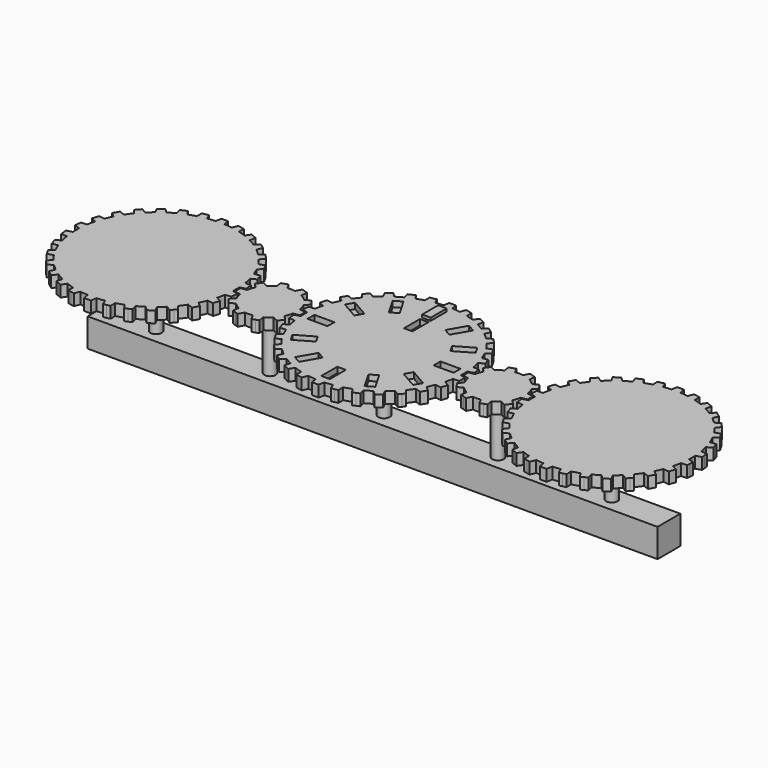
from build123d import *

# Parameters (mm, degrees)
F1_DEPTH  = 2
F3_DEPTH  = 2
F4_W      = 3
F4_H      = 7
F4_W_2    = 7
F4_H_2    = 3
F5_DEPTH  = 2
F5_FACE_W = 3
F5_FACE_H = 7
F6_DEPTH  = 3
F7_W      = 3
F7_H      = 7
F8_DEPTH  = 2
F9_R      = 2
F10_DEPTH = 25
F11_W     = 200
F11_H     = 10
F12_DEPTH = 5


with BuildPart() as f1:
    # F0 (on Top) → F1 (new body, symmetric)
    with BuildSketch(Plane.XY):
        with BuildLine():
            ThreePointArc((28.089844, -1.405814), (28.11621, -0.703127), (28.125, 0))
            ThreePointArc((28.125, 0), (28.11621, 0.703127), (28.089844, 1.405814))
            ThreePointArc((28.089844, 1.405814), (27.970928, 2.939863), (27.768298, 4.465113))
            ThreePointArc((27.768298, 4.465113), (27.510401, 5.847516), (27.183728, 7.215301))
            ThreePointArc((27.183728, 7.215301), (26.748465, 8.691103), (26.233145, 10.140894))
            ThreePointArc((26.233145, 10.140894), (25.693466, 11.439468), (25.089553, 12.709444))
            ThreePointArc((25.089553, 12.709444), (24.356964, 14.0625), (23.551478, 15.373468))
            ThreePointArc((23.551478, 15.373468), (22.753603, 16.53146), (21.898844, 17.648123))
            ThreePointArc((21.898844, 17.648123), (20.900948, 18.819298), (19.840498, 19.934149))
            ThreePointArc((19.840498, 19.934149), (18.819298, 20.900948), (17.751051, 21.815495))
            ThreePointArc((17.751051, 21.815495), (16.53146, 22.753603), (15.262393, 23.623611))
            ThreePointArc((15.262393, 23.623611), (14.0625, 24.356964), (12.827451, 25.029425))
            ThreePointArc((12.827451, 25.029425), (11.439468, 25.693466), (10.017248, 26.280608))
            ThreePointArc((10.017248, 26.280608), (8.691103, 26.748465), (7.34323, 27.149449))
            ThreePointArc((7.34323, 27.149449), (5.847516, 27.510401), (4.334301, 27.789017))
            ThreePointArc((4.334301, 27.789017), (2.939863, 27.970928), (1.538075, 28.082912))
            ThreePointArc((1.538075, 28.082912), (0, 28.125), (-1.538075, 28.082912))
            ThreePointArc((-1.538075, 28.082912), (-2.939863, 27.970928), (-4.334301, 27.789017))
            ThreePointArc((-4.334301, 27.789017), (-5.847516, 27.510401), (-7.34323, 27.149449))
            ThreePointArc((-7.34323, 27.149449), (-8.691103, 26.748465), (-10.017248, 26.280608))
            ThreePointArc((-10.017248, 26.280608), (-11.439468, 25.693466), (-12.827451, 25.029425))
            ThreePointArc((-12.827451, 25.029425), (-14.0625, 24.356964), (-15.262393, 23.623611))
            ThreePointArc((-15.262393, 23.623611), (-16.53146, 22.753603), (-17.751051, 21.815495))
            ThreePointArc((-17.751051, 21.815495), (-18.819298, 20.900948), (-19.840498, 19.934149))
            ThreePointArc((-19.840498, 19.934149), (-20.900948, 18.819298), (-21.898844, 17.648123))
            ThreePointArc((-21.898844, 17.648123), (-22.753603, 16.53146), (-23.551478, 15.373468))
            ThreePointArc((-23.551478, 15.373468), (-24.356964, 14.0625), (-25.089553, 12.709444))
            ThreePointArc((-25.089553, 12.709444), (-25.693466, 11.439468), (-26.233145, 10.140894))
            ThreePointArc((-26.233145, 10.140894), (-26.748465, 8.691103), (-27.183728, 7.215301))
            ThreePointArc((-27.183728, 7.215301), (-27.510401, 5.847516), (-27.768298, 4.465113))
            ThreePointArc((-27.768298, 4.465113), (-27.970928, 2.939863), (-28.089844, 1.405814))
            ThreePointArc((-28.089844, 1.405814), (-28.125, 0), (-28.089844, -1.405814))
            ThreePointArc((-28.089844, -1.405814), (-27.970928, -2.939863), (-27.768298, -4.465113))
            ThreePointArc((-27.768298, -4.465113), (-27.510401, -5.847516), (-27.183728, -7.215301))
            ThreePointArc((-27.183728, -7.215301), (-26.748465, -8.691103), (-26.233145, -10.140894))
            ThreePointArc((-26.233145, -10.140894), (-25.693466, -11.439468), (-25.089553, -12.709444))
            ThreePointArc((-25.089553, -12.709444), (-24.356964, -14.0625), (-23.551478, -15.373468))
            ThreePointArc((-23.551478, -15.373468), (-22.753603, -16.53146), (-21.898844, -17.648123))
            ThreePointArc((-21.898844, -17.648123), (-20.900948, -18.819298), (-19.840498, -19.934149))
            ThreePointArc((-19.840498, -19.934149), (-18.819298, -20.900948), (-17.751051, -21.815495))
            ThreePointArc((-17.751051, -21.815495), (-16.53146, -22.753603), (-15.262393, -23.623611))
            ThreePointArc((-15.262393, -23.623611), (-14.0625, -24.356964), (-12.827451, -25.029425))
            ThreePointArc((-12.827451, -25.029425), (-11.439468, -25.693466), (-10.017248, -26.280608))
            ThreePointArc((-10.017248, -26.280608), (-8.691103, -26.748465), (-7.34323, -27.149449))
            ThreePointArc((-7.34323, -27.149449), (-5.847516, -27.510401), (-4.334301, -27.789017))
            ThreePointArc((-4.334301, -27.789017), (-2.939863, -27.970928), (-1.538075, -28.082912))
            ThreePointArc((-1.538075, -28.082912), (0, -28.125), (1.538075, -28.082912))
            ThreePointArc((1.538075, -28.082912), (2.939863, -27.970928), (4.334301, -27.789017))
            ThreePointArc((4.334301, -27.789017), (5.847516, -27.510401), (7.34323, -27.149449))
            ThreePointArc((7.34323, -27.149449), (8.691103, -26.748465), (10.017248, -26.280608))
            ThreePointArc((10.017248, -26.280608), (11.439468, -25.693466), (12.827451, -25.029425))
            ThreePointArc((12.827451, -25.029425), (14.0625, -24.356964), (15.262393, -23.623611))
            ThreePointArc((15.262393, -23.623611), (16.53146, -22.753603), (17.751051, -21.815495))
            ThreePointArc((17.751051, -21.815495), (18.819298, -20.900948), (19.840498, -19.934149))
            ThreePointArc((19.840498, -19.934149), (20.900948, -18.819298), (21.898844, -17.648123))
            ThreePointArc((21.898844, -17.648123), (22.753603, -16.53146), (23.551478, -15.373468))
            ThreePointArc((23.551478, -15.373468), (24.356964, -14.0625), (25.089553, -12.709444))
            ThreePointArc((25.089553, -12.709444), (25.693466, -11.439468), (26.233145, -10.140894))
            ThreePointArc((26.233145, -10.140894), (26.748465, -8.691103), (27.183728, -7.215301))
            ThreePointArc((27.183728, -7.215301), (27.510401, -5.847516), (27.768298, -4.465113))
            ThreePointArc((27.768298, -4.465113), (27.970928, -2.939863), (28.089844, -1.405814))
        make_face()
        with BuildLine():
            ThreePointArc((27.768298, 4.465113), (27.970928, 2.939863), (28.089844, 1.405814))
            Line((28.089844, 1.405814), (30.083107, 1.977373))
            Line((30.083107, 1.977373), (29.959972, 3.14892))
            Line((29.959972, 3.14892), (29.836838, 4.320467))
            Line((29.836838, 4.320467), (27.768298, 4.465113))
        make_face()
        with BuildLine():
            Line((30.083107, -1.977373), (28.089844, -1.405814))
            ThreePointArc((28.089844, -1.405814), (27.970928, -2.939863), (27.768298, -4.465113))
            Line((27.768298, -4.465113), (29.836838, -4.320467))
            Line((29.836838, -4.320467), (29.959972, -3.14892))
            Line((29.959972, -3.14892), (30.083107, -1.977373))
        make_face()
        with BuildLine():
            ThreePointArc((26.233145, 10.140894), (26.748465, 8.691103), (27.183728, 7.215301))
            Line((27.183728, 7.215301), (29.0146, 8.188792))
            Line((29.0146, 8.188792), (28.650578, 9.309137))
            Line((28.650578, 9.309137), (28.286556, 10.429482))
            Line((28.286556, 10.429482), (26.233145, 10.140894))
        make_face()
        with BuildLine():
            Line((29.0146, -8.188792), (27.183728, -7.215301))
            ThreePointArc((27.183728, -7.215301), (26.748465, -8.691103), (26.233145, -10.140894))
            Line((26.233145, -10.140894), (28.286556, -10.429482))
            Line((28.286556, -10.429482), (28.650578, -9.309137))
            Line((28.650578, -9.309137), (29.0146, -8.188792))
        make_face()
        with BuildLine():
            ThreePointArc((23.551478, 15.373468), (24.356964, 14.0625), (25.089553, 12.709444))
            Line((25.089553, 12.709444), (26.678015, 14.042322))
            Line((26.678015, 14.042322), (26.089015, 15.0625))
            Line((26.089015, 15.0625), (25.500015, 16.082678))
            Line((25.500015, 16.082678), (23.551478, 15.373468))
        make_face()
        with BuildLine():
            Line((26.678015, -14.042322), (25.089553, -12.709444))
            ThreePointArc((25.089553, -12.709444), (24.356964, -14.0625), (23.551478, -15.373468))
            Line((23.551478, -15.373468), (25.500015, -16.082678))
            Line((25.500015, -16.082678), (26.089015, -15.0625))
            Line((26.089015, -15.0625), (26.678015, -14.042322))
        make_face()
        with BuildLine():
            ThreePointArc((19.840498, 19.934149), (20.900948, 18.819298), (21.898844, 17.648123))
            Line((21.898844, 17.648123), (23.175474, 19.282135))
            Line((23.175474, 19.282135), (22.387238, 20.15756))
            Line((22.387238, 20.15756), (21.599002, 21.032984))
            Line((21.599002, 21.032984), (19.840498, 19.934149))
        make_face()
        with BuildLine():
            Line((23.175474, -19.282135), (21.898844, -17.648123))
            ThreePointArc((21.898844, -17.648123), (20.900948, -18.819298), (19.840498, -19.934149))
            Line((19.840498, -19.934149), (21.599002, -21.032984))
            Line((21.599002, -21.032984), (22.387238, -20.15756))
            Line((22.387238, -20.15756), (23.175474, -19.282135))
        make_face()
        with BuildLine():
            ThreePointArc((15.262393, 23.623611), (16.53146, 22.753603), (17.751051, 21.815495))
            Line((17.751051, 21.815495), (18.660053, 23.679226))
            Line((18.660053, 23.679226), (17.707031, 24.371637))
            Line((17.707031, 24.371637), (16.754009, 25.064048))
            Line((16.754009, 25.064048), (15.262393, 23.623611))
        make_face()
        with BuildLine():
            Line((18.660053, -23.679226), (17.751051, -21.815495))
            ThreePointArc((17.751051, -21.815495), (16.53146, -22.753603), (15.262393, -23.623611))
            Line((15.262393, -23.623611), (16.754009, -25.064048))
            Line((16.754009, -25.064048), (17.707031, -24.371637))
            Line((17.707031, -24.371637), (18.660053, -23.679226))
        make_face()
        with BuildLine():
            ThreePointArc((10.017248, 26.280608), (11.439468, 25.693466), (12.827451, 25.029425))
            Line((12.827451, 25.029425), (13.329098, 27.041421))
            Line((13.329098, 27.041421), (12.252941, 27.520557))
            Line((12.252941, 27.520557), (11.176785, 27.999693))
            Line((11.176785, 27.999693), (10.017248, 26.280608))
        make_face()
        with BuildLine():
            Line((13.329098, -27.041421), (12.827451, -25.029425))
            ThreePointArc((12.827451, -25.029425), (11.439468, -25.693466), (10.017248, -26.280608))
            Line((10.017248, -26.280608), (11.176785, -27.999693))
            Line((11.176785, -27.999693), (12.252941, -27.520557))
            Line((12.252941, -27.520557), (13.329098, -27.041421))
        make_face()
        with BuildLine():
            ThreePointArc((4.334301, 27.789017), (5.847516, 27.510401), (7.34323, 27.149449))
            Line((7.34323, 27.149449), (7.415598, 29.221777))
            Line((7.415598, 29.221777), (6.26334, 29.466696))
            Line((6.26334, 29.466696), (5.111082, 29.711616))
            Line((5.111082, 29.711616), (4.334301, 27.789017))
        make_face()
        with BuildLine():
            Line((7.415598, -29.221777), (7.34323, -27.149449))
            ThreePointArc((7.34323, -27.149449), (5.847516, -27.510401), (4.334301, -27.789017))
            Line((4.334301, -27.789017), (5.111082, -29.711616))
            Line((5.111082, -29.711616), (6.26334, -29.466696))
            Line((6.26334, -29.466696), (7.415598, -29.221777))
        make_face()
        with BuildLine():
            ThreePointArc((-1.538075, 28.082912), (0, 28.125), (1.538075, 28.082912))
            Line((1.538075, 28.082912), (1.178, 30.125))
            Line((1.178, 30.125), (0, 30.125))
            Line((0, 30.125), (-1.178, 30.125))
            Line((-1.178, 30.125), (-1.538075, 28.082912))
        make_face()
        with BuildLine():
            Line((1.178, -30.125), (1.538075, -28.082912))
            ThreePointArc((1.538075, -28.082912), (0, -28.125), (-1.538075, -28.082912))
            Line((-1.538075, -28.082912), (-1.178, -30.125))
            Line((-1.178, -30.125), (0, -30.125))
            Line((0, -30.125), (1.178, -30.125))
        make_face()
        with BuildLine():
            ThreePointArc((-7.34323, 27.149449), (-5.847516, 27.510401), (-4.334301, 27.789017))
            Line((-4.334301, 27.789017), (-5.111082, 29.711616))
            Line((-5.111082, 29.711616), (-6.26334, 29.466696))
            Line((-6.26334, 29.466696), (-7.415598, 29.221777))
            Line((-7.415598, 29.221777), (-7.34323, 27.149449))
        make_face()
        with BuildLine():
            Line((-5.111082, -29.711616), (-4.334301, -27.789017))
            ThreePointArc((-4.334301, -27.789017), (-5.847516, -27.510401), (-7.34323, -27.149449))
            Line((-7.34323, -27.149449), (-7.415598, -29.221777))
            Line((-7.415598, -29.221777), (-6.26334, -29.466696))
            Line((-6.26334, -29.466696), (-5.111082, -29.711616))
        make_face()
        with BuildLine():
            ThreePointArc((-12.827451, 25.029425), (-11.439468, 25.693466), (-10.017248, 26.280608))
            Line((-10.017248, 26.280608), (-11.176785, 27.999693))
            Line((-11.176785, 27.999693), (-12.252941, 27.520557))
            Line((-12.252941, 27.520557), (-13.329098, 27.041421))
            Line((-13.329098, 27.041421), (-12.827451, 25.029425))
        make_face()
        with BuildLine():
            Line((-11.176785, -27.999693), (-10.017248, -26.280608))
            ThreePointArc((-10.017248, -26.280608), (-11.439468, -25.693466), (-12.827451, -25.029425))
            Line((-12.827451, -25.029425), (-13.329098, -27.041421))
            Line((-13.329098, -27.041421), (-12.252941, -27.520557))
            Line((-12.252941, -27.520557), (-11.176785, -27.999693))
        make_face()
        with BuildLine():
            ThreePointArc((-17.751051, 21.815495), (-16.53146, 22.753603), (-15.262393, 23.623611))
            Line((-15.262393, 23.623611), (-16.754009, 25.064048))
            Line((-16.754009, 25.064048), (-17.707031, 24.371637))
            Line((-17.707031, 24.371637), (-18.660053, 23.679226))
            Line((-18.660053, 23.679226), (-17.751051, 21.815495))
        make_face()
        with BuildLine():
            Line((-16.754009, -25.064048), (-15.262393, -23.623611))
            ThreePointArc((-15.262393, -23.623611), (-16.53146, -22.753603), (-17.751051, -21.815495))
            Line((-17.751051, -21.815495), (-18.660053, -23.679226))
            Line((-18.660053, -23.679226), (-17.707031, -24.371637))
            Line((-17.707031, -24.371637), (-16.754009, -25.064048))
        make_face()
        with BuildLine():
            ThreePointArc((-21.898844, 17.648123), (-20.900948, 18.819298), (-19.840498, 19.934149))
            Line((-19.840498, 19.934149), (-21.599002, 21.032984))
            Line((-21.599002, 21.032984), (-22.387238, 20.15756))
            Line((-22.387238, 20.15756), (-23.175474, 19.282135))
            Line((-23.175474, 19.282135), (-21.898844, 17.648123))
        make_face()
        with BuildLine():
            Line((-21.599002, -21.032984), (-19.840498, -19.934149))
            ThreePointArc((-19.840498, -19.934149), (-20.900948, -18.819298), (-21.898844, -17.648123))
            Line((-21.898844, -17.648123), (-23.175474, -19.282135))
            Line((-23.175474, -19.282135), (-22.387238, -20.15756))
            Line((-22.387238, -20.15756), (-21.599002, -21.032984))
        make_face()
        with BuildLine():
            ThreePointArc((-25.089553, 12.709444), (-24.356964, 14.0625), (-23.551478, 15.373468))
            Line((-23.551478, 15.373468), (-25.500015, 16.082678))
            Line((-25.500015, 16.082678), (-26.089015, 15.0625))
            Line((-26.089015, 15.0625), (-26.678015, 14.042322))
            Line((-26.678015, 14.042322), (-25.089553, 12.709444))
        make_face()
        with BuildLine():
            Line((-25.500015, -16.082678), (-23.551478, -15.373468))
            ThreePointArc((-23.551478, -15.373468), (-24.356964, -14.0625), (-25.089553, -12.709444))
            Line((-25.089553, -12.709444), (-26.678015, -14.042322))
            Line((-26.678015, -14.042322), (-26.089015, -15.0625))
            Line((-26.089015, -15.0625), (-25.500015, -16.082678))
        make_face()
        with BuildLine():
            ThreePointArc((-27.183728, 7.215301), (-26.748465, 8.691103), (-26.233145, 10.140894))
            Line((-26.233145, 10.140894), (-28.286556, 10.429482))
            Line((-28.286556, 10.429482), (-28.650578, 9.309137))
            Line((-28.650578, 9.309137), (-29.0146, 8.188792))
            Line((-29.0146, 8.188792), (-27.183728, 7.215301))
        make_face()
        with BuildLine():
            Line((-28.286556, -10.429482), (-26.233145, -10.140894))
            ThreePointArc((-26.233145, -10.140894), (-26.748465, -8.691103), (-27.183728, -7.215301))
            Line((-27.183728, -7.215301), (-29.0146, -8.188792))
            Line((-29.0146, -8.188792), (-28.650578, -9.309137))
            Line((-28.650578, -9.309137), (-28.286556, -10.429482))
        make_face()
        with BuildLine():
            ThreePointArc((-28.089844, 1.405814), (-27.970928, 2.939863), (-27.768298, 4.465113))
            Line((-27.768298, 4.465113), (-29.836838, 4.320467))
            Line((-29.836838, 4.320467), (-29.959972, 3.14892))
            Line((-29.959972, 3.14892), (-30.083107, 1.977373))
            Line((-30.083107, 1.977373), (-28.089844, 1.405814))
        make_face()
        with BuildLine():
            Line((-29.836838, -4.320467), (-27.768298, -4.465113))
            ThreePointArc((-27.768298, -4.465113), (-27.970928, -2.939863), (-28.089844, -1.405814))
            Line((-28.089844, -1.405814), (-30.083107, -1.977373))
            Line((-30.083107, -1.977373), (-29.959972, -3.14892))
            Line((-29.959972, -3.14892), (-29.836838, -4.320467))
        make_face()
    extrude(amount=F1_DEPTH, both=True)

    # F4 (on face) → F5 (cut)
    with BuildSketch(Plane.XY.offset(2)):
        with Locations((0, 22.125)):
            Rectangle(F4_W, F4_H)
        Polygon((-11.513462, 22.941901), (-14.111538, 21.441901), (-10.611538, 15.379723), (-8.013462, 16.879723), align=None)
        Polygon((-21.441901, 14.111538), (-22.941901, 11.513462), (-16.879723, 8.013462), (-15.379723, 10.611538), align=None)
        with Locations((-22.125, 0)):
            Rectangle(F4_W_2, F4_H_2)
        Polygon((-22.941901, -11.513462), (-21.441901, -14.111538), (-15.379723, -10.611538), (-16.879723, -8.013462), align=None)
        Polygon((-14.111538, -21.441901), (-11.513462, -22.941901), (-8.013462, -16.879723), (-10.611538, -15.379723), align=None)
        with Locations((0, -22.125)):
            Rectangle(F4_W, F4_H)
        Polygon((11.513462, -22.941901), (14.111538, -21.441901), (10.611538, -15.379723), (8.013462, -16.879723), align=None)
        Polygon((21.441901, -14.111538), (22.941901, -11.513462), (16.879723, -8.013462), (15.379723, -10.611538), align=None)
        with Locations((22.125, 0)):
            Rectangle(F4_W_2, F4_H_2)
        Polygon((22.941901, 11.513462), (21.441901, 14.111538), (15.379723, 10.611538), (16.879723, 8.013462), align=None)
        Polygon((14.111538, 21.441901), (11.513462, 22.941901), (8.013462, 16.879723), (10.611538, 15.379723), align=None)
    extrude(amount=-F5_DEPTH, mode=Mode.SUBTRACT)

    # F7 (on face) → F8 (cut)
    with BuildSketch(Plane.XY.offset(2)):
        with Locations((0, 14.125)):
            Rectangle(F7_W, F7_H)
    extrude(amount=-F8_DEPTH, mode=Mode.SUBTRACT)


with BuildPart() as f3:
    # F2 (on Top) → F3 (new body, symmetric)
    with BuildSketch(Plane.XY):
        with BuildLine():
            ThreePointArc((49.247251, -1.542395), (49.343008, -0.773838), (49.375, 0))
            ThreePointArc((49.375, 0), (49.343008, 0.773838), (49.247251, 1.542395))
            ThreePointArc((49.247251, 1.542395), (48.916155, 2.897034), (48.38778, 4.187574))
            ThreePointArc((48.38778, 4.187574), (47.584534, 5.510487), (46.574586, 6.683221))
            ThreePointArc((46.574586, 6.683221), (45.510487, 7.584534), (44.324463, 8.318032))
            ThreePointArc((44.324463, 8.318032), (42.897034, 8.916155), (41.390653, 9.271284))
            ThreePointArc((41.390653, 9.271284), (40, 9.375), (38.609347, 9.271284))
            ThreePointArc((38.609347, 9.271284), (37.102966, 8.916155), (35.675537, 8.318032))
            ThreePointArc((35.675537, 8.318032), (34.489513, 7.584534), (33.425414, 6.683221))
            ThreePointArc((33.425414, 6.683221), (32.415466, 5.510487), (31.61222, 4.187574))
            ThreePointArc((31.61222, 4.187574), (31.083845, 2.897034), (30.752749, 1.542395))
            ThreePointArc((30.752749, 1.542395), (30.625, 0), (30.752749, -1.542395))
            ThreePointArc((30.752749, -1.542395), (31.083845, -2.897034), (31.61222, -4.187574))
            ThreePointArc((31.61222, -4.187574), (32.415466, -5.510487), (33.425414, -6.683221))
            ThreePointArc((33.425414, -6.683221), (34.489513, -7.584534), (35.675537, -8.318032))
            ThreePointArc((35.675537, -8.318032), (37.102966, -8.916155), (38.609347, -9.271284))
            ThreePointArc((38.609347, -9.271284), (40, -9.375), (41.390653, -9.271284))
            ThreePointArc((41.390653, -9.271284), (42.897034, -8.916155), (44.324463, -8.318032))
            ThreePointArc((44.324463, -8.318032), (45.510487, -7.584534), (46.574586, -6.683221))
            ThreePointArc((46.574586, -6.683221), (47.584534, -5.510487), (48.38778, -4.187574))
            ThreePointArc((48.38778, -4.187574), (48.916155, -2.897034), (49.247251, -1.542395))
        make_face()
        with BuildLine():
            ThreePointArc((49.247251, 1.542395), (49.343008, 0.773838), (49.375, 0))
            ThreePointArc((49.375, 0), (49.343008, -0.773838), (49.247251, -1.542395))
            Line((49.247251, -1.542395), (51.313838, -1.178))
            Line((51.313838, -1.178), (51.313838, 0))
            Line((51.313838, 0), (51.313838, 1.178))
            Line((51.313838, 1.178), (49.247251, 1.542395))
        make_face()
        with BuildLine():
            ThreePointArc((46.574586, 6.683221), (47.584534, 5.510487), (48.38778, 4.187574))
            Line((48.38778, 4.187574), (49.845499, 5.697085))
            Line((49.845499, 5.697085), (49.153088, 6.650107))
            Line((49.153088, 6.650107), (48.460677, 7.603129))
            Line((48.460677, 7.603129), (46.574586, 6.683221))
        make_face()
        with BuildLine():
            Line((49.845499, -5.697085), (48.38778, -4.187574))
            ThreePointArc((48.38778, -4.187574), (47.584534, -5.510487), (46.574586, -6.683221))
            Line((46.574586, -6.683221), (48.460677, -7.603129))
            Line((48.460677, -7.603129), (49.153088, -6.650107))
            Line((49.153088, -6.650107), (49.845499, -5.697085))
        make_face()
        with BuildLine():
            ThreePointArc((41.390653, 9.271284), (42.897034, 8.916155), (44.324463, 8.318032))
            Line((44.324463, 8.318032), (44.616513, 10.396078))
            Line((44.616513, 10.396078), (43.496168, 10.7601))
            Line((43.496168, 10.7601), (42.375824, 11.124122))
            Line((42.375824, 11.124122), (41.390653, 9.271284))
        make_face()
        with BuildLine():
            Line((44.616513, -10.396078), (44.324463, -8.318032))
            ThreePointArc((44.324463, -8.318032), (42.897034, -8.916155), (41.390653, -9.271284))
            Line((41.390653, -9.271284), (42.375824, -11.124122))
            Line((42.375824, -11.124122), (43.496168, -10.7601))
            Line((43.496168, -10.7601), (44.616513, -10.396078))
        make_face()
        with BuildLine():
            ThreePointArc((35.675537, 8.318032), (37.102966, 8.916155), (38.609347, 9.271284))
            Line((38.609347, 9.271284), (37.624176, 11.124122))
            Line((37.624176, 11.124122), (36.503832, 10.7601))
            Line((36.503832, 10.7601), (35.383487, 10.396078))
            Line((35.383487, 10.396078), (35.675537, 8.318032))
        make_face()
        with BuildLine():
            Line((37.624176, -11.124122), (38.609347, -9.271284))
            ThreePointArc((38.609347, -9.271284), (37.102966, -8.916155), (35.675537, -8.318032))
            Line((35.675537, -8.318032), (35.383487, -10.396078))
            Line((35.383487, -10.396078), (36.503832, -10.7601))
            Line((36.503832, -10.7601), (37.624176, -11.124122))
        make_face()
        with BuildLine():
            ThreePointArc((31.61222, 4.187574), (32.415466, 5.510487), (33.425414, 6.683221))
            Line((33.425414, 6.683221), (31.539323, 7.603129))
            Line((31.539323, 7.603129), (30.846912, 6.650107))
            Line((30.846912, 6.650107), (30.154501, 5.697085))
            Line((30.154501, 5.697085), (31.61222, 4.187574))
        make_face()
        with BuildLine():
            Line((31.539323, -7.603129), (33.425414, -6.683221))
            ThreePointArc((33.425414, -6.683221), (32.415466, -5.510487), (31.61222, -4.187574))
            Line((31.61222, -4.187574), (30.154501, -5.697085))
            Line((30.154501, -5.697085), (30.846912, -6.650107))
            Line((30.846912, -6.650107), (31.539323, -7.603129))
        make_face()
        with BuildLine():
            ThreePointArc((30.752749, -1.542395), (30.625, 0), (30.752749, 1.542395))
            Line((30.752749, 1.542395), (28.686162, 1.178))
            Line((28.686162, 1.178), (28.686162, 0))
            Line((28.686162, 0), (28.686162, -1.178))
            Line((28.686162, -1.178), (30.752749, -1.542395))
        make_face()
        with BuildLine():
            ThreePointArc((-30.75461, -1.553508), (-30.657459, -0.779453), (-30.625, 0))
            ThreePointArc((-30.625, 0), (-30.657459, 0.779453), (-30.75461, 1.553508))
            ThreePointArc((-30.75461, 1.553508), (-31.083845, 2.897034), (-31.607193, 4.17749))
            ThreePointArc((-31.607193, 4.17749), (-32.415466, 5.510487), (-33.433451, 6.691118))
            ThreePointArc((-33.433451, 6.691118), (-34.489513, 7.584534), (-35.665544, 8.312828))
            ThreePointArc((-35.665544, 8.312828), (-37.102966, 8.916155), (-38.620491, 9.272949))
            ThreePointArc((-38.620491, 9.272949), (-40, 9.375), (-41.379509, 9.272949))
            ThreePointArc((-41.379509, 9.272949), (-42.897034, 8.916155), (-44.334456, 8.312828))
            ThreePointArc((-44.334456, 8.312828), (-45.510487, 7.584534), (-46.566549, 6.691118))
            ThreePointArc((-46.566549, 6.691118), (-47.584534, 5.510487), (-48.392807, 4.17749))
            ThreePointArc((-48.392807, 4.17749), (-48.916155, 2.897034), (-49.24539, 1.553508))
            ThreePointArc((-49.24539, 1.553508), (-49.375, 0), (-49.24539, -1.553508))
            ThreePointArc((-49.24539, -1.553508), (-48.916155, -2.897034), (-48.392807, -4.17749))
            ThreePointArc((-48.392807, -4.17749), (-47.584534, -5.510487), (-46.566549, -6.691118))
            ThreePointArc((-46.566549, -6.691118), (-45.510487, -7.584534), (-44.334456, -8.312828))
            ThreePointArc((-44.334456, -8.312828), (-42.897034, -8.916155), (-41.379509, -9.272949))
            ThreePointArc((-41.379509, -9.272949), (-40, -9.375), (-38.620491, -9.272949))
            ThreePointArc((-38.620491, -9.272949), (-37.102966, -8.916155), (-35.665544, -8.312828))
            ThreePointArc((-35.665544, -8.312828), (-34.489513, -7.584534), (-33.433451, -6.691118))
            ThreePointArc((-33.433451, -6.691118), (-32.415466, -5.510487), (-31.607193, -4.17749))
            ThreePointArc((-31.607193, -4.17749), (-31.083845, -2.897034), (-30.75461, -1.553508))
        make_face()
        with BuildLine():
            ThreePointArc((-30.75461, 1.553508), (-30.657459, 0.779453), (-30.625, 0))
            ThreePointArc((-30.625, 0), (-30.657459, -0.779453), (-30.75461, -1.553508))
            Line((-30.75461, -1.553508), (-28.625, -1.178))
            Line((-28.625, -1.178), (-28.625, 0))
            Line((-28.625, 0), (-28.625, 1.178))
            Line((-28.625, 1.178), (-30.75461, 1.553508))
        make_face()
        with BuildLine():
            ThreePointArc((-33.433451, 6.691118), (-32.415466, 5.510487), (-31.607193, 4.17749))
            Line((-31.607193, 4.17749), (-30.105021, 5.733035))
            Line((-30.105021, 5.733035), (-30.797432, 6.686057))
            Line((-30.797432, 6.686057), (-31.489843, 7.639079))
            Line((-31.489843, 7.639079), (-33.433451, 6.691118))
        make_face()
        with BuildLine():
            Line((-30.105021, -5.733035), (-31.607193, -4.17749))
            ThreePointArc((-31.607193, -4.17749), (-32.415466, -5.510487), (-33.433451, -6.691118))
            Line((-33.433451, -6.691118), (-31.489843, -7.639079))
            Line((-31.489843, -7.639079), (-30.797432, -6.686057))
            Line((-30.797432, -6.686057), (-30.105021, -5.733035))
        make_face()
        with BuildLine():
            ThreePointArc((-38.620491, 9.272949), (-37.102966, 8.916155), (-35.665544, 8.312828))
            Line((-35.665544, 8.312828), (-35.364587, 10.454246))
            Line((-35.364587, 10.454246), (-36.484932, 10.818268))
            Line((-36.484932, 10.818268), (-37.605276, 11.18229))
            Line((-37.605276, 11.18229), (-38.620491, 9.272949))
        make_face()
        with BuildLine():
            Line((-35.364587, -10.454246), (-35.665544, -8.312828))
            ThreePointArc((-35.665544, -8.312828), (-37.102966, -8.916155), (-38.620491, -9.272949))
            Line((-38.620491, -9.272949), (-37.605276, -11.18229))
            Line((-37.605276, -11.18229), (-36.484932, -10.818268))
            Line((-36.484932, -10.818268), (-35.364587, -10.454246))
        make_face()
        with BuildLine():
            ThreePointArc((-44.334456, 8.312828), (-42.897034, 8.916155), (-41.379509, 9.272949))
            Line((-41.379509, 9.272949), (-42.394724, 11.18229))
            Line((-42.394724, 11.18229), (-43.515068, 10.818268))
            Line((-43.515068, 10.818268), (-44.635413, 10.454246))
            Line((-44.635413, 10.454246), (-44.334456, 8.312828))
        make_face()
        with BuildLine():
            Line((-42.394724, -11.18229), (-41.379509, -9.272949))
            ThreePointArc((-41.379509, -9.272949), (-42.897034, -8.916155), (-44.334456, -8.312828))
            Line((-44.334456, -8.312828), (-44.635413, -10.454246))
            Line((-44.635413, -10.454246), (-43.515068, -10.818268))
            Line((-43.515068, -10.818268), (-42.394724, -11.18229))
        make_face()
        with BuildLine():
            ThreePointArc((-48.392807, 4.17749), (-47.584534, 5.510487), (-46.566549, 6.691118))
            Line((-46.566549, 6.691118), (-48.510157, 7.639079))
            Line((-48.510157, 7.639079), (-49.202568, 6.686057))
            Line((-49.202568, 6.686057), (-49.894979, 5.733035))
            Line((-49.894979, 5.733035), (-48.392807, 4.17749))
        make_face()
        with BuildLine():
            Line((-48.510157, -7.639079), (-46.566549, -6.691118))
            ThreePointArc((-46.566549, -6.691118), (-47.584534, -5.510487), (-48.392807, -4.17749))
            Line((-48.392807, -4.17749), (-49.894979, -5.733035))
            Line((-49.894979, -5.733035), (-49.202568, -6.686057))
            Line((-49.202568, -6.686057), (-48.510157, -7.639079))
        make_face()
        with BuildLine():
            ThreePointArc((-49.24539, -1.553508), (-49.375, 0), (-49.24539, 1.553508))
            Line((-49.24539, 1.553508), (-51.375, 1.178))
            Line((-51.375, 1.178), (-51.375, 0))
            Line((-51.375, 0), (-51.375, -1.178))
            Line((-51.375, -1.178), (-49.24539, -1.553508))
        make_face()
        with BuildLine():
            ThreePointArc((-51.910156, -1.405814), (-51.88379, -0.703127), (-51.875, 0))
            ThreePointArc((-51.875, 0), (-51.88379, 0.703127), (-51.910156, 1.405814))
            ThreePointArc((-51.910156, 1.405814), (-52.029072, 2.939863), (-52.231702, 4.465113))
            ThreePointArc((-52.231702, 4.465113), (-52.489599, 5.847516), (-52.816272, 7.215301))
            ThreePointArc((-52.816272, 7.215301), (-53.251535, 8.691103), (-53.766855, 10.140894))
            ThreePointArc((-53.766855, 10.140894), (-54.306534, 11.439468), (-54.910447, 12.709444))
            ThreePointArc((-54.910447, 12.709444), (-55.643036, 14.0625), (-56.448522, 15.373468))
            ThreePointArc((-56.448522, 15.373468), (-57.246397, 16.53146), (-58.101156, 17.648123))
            ThreePointArc((-58.101156, 17.648123), (-59.099052, 18.819298), (-60.159502, 19.934149))
            ThreePointArc((-60.159502, 19.934149), (-61.180702, 20.900948), (-62.248949, 21.815495))
            ThreePointArc((-62.248949, 21.815495), (-63.46854, 22.753603), (-64.737607, 23.623611))
            ThreePointArc((-64.737607, 23.623611), (-65.9375, 24.356964), (-67.172549, 25.029425))
            ThreePointArc((-67.172549, 25.029425), (-68.560532, 25.693466), (-69.982752, 26.280608))
            ThreePointArc((-69.982752, 26.280608), (-71.308897, 26.748465), (-72.65677, 27.149449))
            ThreePointArc((-72.65677, 27.149449), (-74.152484, 27.510401), (-75.665699, 27.789017))
            ThreePointArc((-75.665699, 27.789017), (-77.060137, 27.970928), (-78.461925, 28.082912))
            ThreePointArc((-78.461925, 28.082912), (-80, 28.125), (-81.538075, 28.082912))
            ThreePointArc((-81.538075, 28.082912), (-82.939863, 27.970928), (-84.334301, 27.789017))
            ThreePointArc((-84.334301, 27.789017), (-85.847516, 27.510401), (-87.34323, 27.149449))
            ThreePointArc((-87.34323, 27.149449), (-88.691103, 26.748465), (-90.017248, 26.280608))
            ThreePointArc((-90.017248, 26.280608), (-91.439468, 25.693466), (-92.827451, 25.029425))
            ThreePointArc((-92.827451, 25.029425), (-94.0625, 24.356964), (-95.262393, 23.623611))
            ThreePointArc((-95.262393, 23.623611), (-96.53146, 22.753603), (-97.751051, 21.815495))
            ThreePointArc((-97.751051, 21.815495), (-98.819298, 20.900948), (-99.840498, 19.934149))
            ThreePointArc((-99.840498, 19.934149), (-100.900948, 18.819298), (-101.898844, 17.648123))
            ThreePointArc((-101.898844, 17.648123), (-102.753603, 16.53146), (-103.551478, 15.373468))
            ThreePointArc((-103.551478, 15.373468), (-104.356964, 14.0625), (-105.089553, 12.709444))
            ThreePointArc((-105.089553, 12.709444), (-105.693466, 11.439468), (-106.233145, 10.140894))
            ThreePointArc((-106.233145, 10.140894), (-106.748465, 8.691103), (-107.183728, 7.215301))
            ThreePointArc((-107.183728, 7.215301), (-107.510401, 5.847516), (-107.768298, 4.465113))
            ThreePointArc((-107.768298, 4.465113), (-107.970928, 2.939863), (-108.089844, 1.405814))
            ThreePointArc((-108.089844, 1.405814), (-108.125, 0), (-108.089844, -1.405814))
            ThreePointArc((-108.089844, -1.405814), (-107.970928, -2.939863), (-107.768298, -4.465113))
            ThreePointArc((-107.768298, -4.465113), (-107.510401, -5.847516), (-107.183728, -7.215301))
            ThreePointArc((-107.183728, -7.215301), (-106.748465, -8.691103), (-106.233145, -10.140894))
            ThreePointArc((-106.233145, -10.140894), (-105.693466, -11.439468), (-105.089553, -12.709444))
            ThreePointArc((-105.089553, -12.709444), (-104.356964, -14.0625), (-103.551478, -15.373468))
            ThreePointArc((-103.551478, -15.373468), (-102.753603, -16.53146), (-101.898844, -17.648123))
            ThreePointArc((-101.898844, -17.648123), (-100.900948, -18.819298), (-99.840498, -19.934149))
            ThreePointArc((-99.840498, -19.934149), (-98.819298, -20.900948), (-97.751051, -21.815495))
            ThreePointArc((-97.751051, -21.815495), (-96.53146, -22.753603), (-95.262393, -23.623611))
            ThreePointArc((-95.262393, -23.623611), (-94.0625, -24.356964), (-92.827451, -25.029425))
            ThreePointArc((-92.827451, -25.029425), (-91.439468, -25.693466), (-90.017248, -26.280608))
            ThreePointArc((-90.017248, -26.280608), (-88.691103, -26.748465), (-87.34323, -27.149449))
            ThreePointArc((-87.34323, -27.149449), (-85.847516, -27.510401), (-84.334301, -27.789017))
            ThreePointArc((-84.334301, -27.789017), (-82.939863, -27.970928), (-81.538075, -28.082912))
            ThreePointArc((-81.538075, -28.082912), (-80, -28.125), (-78.461925, -28.082912))
            ThreePointArc((-78.461925, -28.082912), (-77.060137, -27.970928), (-75.665699, -27.789017))
            ThreePointArc((-75.665699, -27.789017), (-74.152484, -27.510401), (-72.65677, -27.149449))
            ThreePointArc((-72.65677, -27.149449), (-71.308897, -26.748465), (-69.982752, -26.280608))
            ThreePointArc((-69.982752, -26.280608), (-68.560532, -25.693466), (-67.172549, -25.029425))
            ThreePointArc((-67.172549, -25.029425), (-65.9375, -24.356964), (-64.737607, -23.623611))
            ThreePointArc((-64.737607, -23.623611), (-63.46854, -22.753603), (-62.248949, -21.815495))
            ThreePointArc((-62.248949, -21.815495), (-61.180702, -20.900948), (-60.159502, -19.934149))
            ThreePointArc((-60.159502, -19.934149), (-59.099052, -18.819298), (-58.101156, -17.648123))
            ThreePointArc((-58.101156, -17.648123), (-57.246397, -16.53146), (-56.448522, -15.373468))
            ThreePointArc((-56.448522, -15.373468), (-55.643036, -14.0625), (-54.910447, -12.709444))
            ThreePointArc((-54.910447, -12.709444), (-54.306534, -11.439468), (-53.766855, -10.140894))
            ThreePointArc((-53.766855, -10.140894), (-53.251535, -8.691103), (-52.816272, -7.215301))
            ThreePointArc((-52.816272, -7.215301), (-52.489599, -5.847516), (-52.231702, -4.465113))
            ThreePointArc((-52.231702, -4.465113), (-52.029072, -2.939863), (-51.910156, -1.405814))
        make_face()
        with BuildLine():
            ThreePointArc((-52.231702, 4.465113), (-52.029072, 2.939863), (-51.910156, 1.405814))
            Line((-51.910156, 1.405814), (-49.916893, 1.977373))
            Line((-49.916893, 1.977373), (-50.040028, 3.14892))
            Line((-50.040028, 3.14892), (-50.163162, 4.320467))
            Line((-50.163162, 4.320467), (-52.231702, 4.465113))
        make_face()
        with BuildLine():
            Line((-49.916893, -1.977373), (-51.910156, -1.405814))
            ThreePointArc((-51.910156, -1.405814), (-52.029072, -2.939863), (-52.231702, -4.465113))
            Line((-52.231702, -4.465113), (-50.163162, -4.320467))
            Line((-50.163162, -4.320467), (-50.040028, -3.14892))
            Line((-50.040028, -3.14892), (-49.916893, -1.977373))
        make_face()
        with BuildLine():
            ThreePointArc((-53.766855, 10.140894), (-53.251535, 8.691103), (-52.816272, 7.215301))
            Line((-52.816272, 7.215301), (-50.9854, 8.188792))
            Line((-50.9854, 8.188792), (-51.349422, 9.309137))
            Line((-51.349422, 9.309137), (-51.713444, 10.429482))
            Line((-51.713444, 10.429482), (-53.766855, 10.140894))
        make_face()
        with BuildLine():
            Line((-50.9854, -8.188792), (-52.816272, -7.215301))
            ThreePointArc((-52.816272, -7.215301), (-53.251535, -8.691103), (-53.766855, -10.140894))
            Line((-53.766855, -10.140894), (-51.713444, -10.429482))
            Line((-51.713444, -10.429482), (-51.349422, -9.309137))
            Line((-51.349422, -9.309137), (-50.9854, -8.188792))
        make_face()
        with BuildLine():
            ThreePointArc((-56.448522, 15.373468), (-55.643036, 14.0625), (-54.910447, 12.709444))
            Line((-54.910447, 12.709444), (-53.321985, 14.042322))
            Line((-53.321985, 14.042322), (-53.910985, 15.0625))
            Line((-53.910985, 15.0625), (-54.499985, 16.082678))
            Line((-54.499985, 16.082678), (-56.448522, 15.373468))
        make_face()
        with BuildLine():
            Line((-53.321985, -14.042322), (-54.910447, -12.709444))
            ThreePointArc((-54.910447, -12.709444), (-55.643036, -14.0625), (-56.448522, -15.373468))
            Line((-56.448522, -15.373468), (-54.499985, -16.082678))
            Line((-54.499985, -16.082678), (-53.910985, -15.0625))
            Line((-53.910985, -15.0625), (-53.321985, -14.042322))
        make_face()
        with BuildLine():
            ThreePointArc((-60.159502, 19.934149), (-59.099052, 18.819298), (-58.101156, 17.648123))
            Line((-58.101156, 17.648123), (-56.824526, 19.282135))
            Line((-56.824526, 19.282135), (-57.612762, 20.15756))
            Line((-57.612762, 20.15756), (-58.400998, 21.032984))
            Line((-58.400998, 21.032984), (-60.159502, 19.934149))
        make_face()
        with BuildLine():
            Line((-56.824526, -19.282135), (-58.101156, -17.648123))
            ThreePointArc((-58.101156, -17.648123), (-59.099052, -18.819298), (-60.159502, -19.934149))
            Line((-60.159502, -19.934149), (-58.400998, -21.032984))
            Line((-58.400998, -21.032984), (-57.612762, -20.15756))
            Line((-57.612762, -20.15756), (-56.824526, -19.282135))
        make_face()
        with BuildLine():
            ThreePointArc((-64.737607, 23.623611), (-63.46854, 22.753603), (-62.248949, 21.815495))
            Line((-62.248949, 21.815495), (-61.339947, 23.679226))
            Line((-61.339947, 23.679226), (-62.292969, 24.371637))
            Line((-62.292969, 24.371637), (-63.245991, 25.064048))
            Line((-63.245991, 25.064048), (-64.737607, 23.623611))
        make_face()
        with BuildLine():
            Line((-61.339947, -23.679226), (-62.248949, -21.815495))
            ThreePointArc((-62.248949, -21.815495), (-63.46854, -22.753603), (-64.737607, -23.623611))
            Line((-64.737607, -23.623611), (-63.245991, -25.064048))
            Line((-63.245991, -25.064048), (-62.292969, -24.371637))
            Line((-62.292969, -24.371637), (-61.339947, -23.679226))
        make_face()
        with BuildLine():
            ThreePointArc((-69.982752, 26.280608), (-68.560532, 25.693466), (-67.172549, 25.029425))
            Line((-67.172549, 25.029425), (-66.670902, 27.041421))
            Line((-66.670902, 27.041421), (-67.747059, 27.520557))
            Line((-67.747059, 27.520557), (-68.823215, 27.999693))
            Line((-68.823215, 27.999693), (-69.982752, 26.280608))
        make_face()
        with BuildLine():
            Line((-66.670902, -27.041421), (-67.172549, -25.029425))
            ThreePointArc((-67.172549, -25.029425), (-68.560532, -25.693466), (-69.982752, -26.280608))
            Line((-69.982752, -26.280608), (-68.823215, -27.999693))
            Line((-68.823215, -27.999693), (-67.747059, -27.520557))
            Line((-67.747059, -27.520557), (-66.670902, -27.041421))
        make_face()
        with BuildLine():
            ThreePointArc((-75.665699, 27.789017), (-74.152484, 27.510401), (-72.65677, 27.149449))
            Line((-72.65677, 27.149449), (-72.584402, 29.221777))
            Line((-72.584402, 29.221777), (-73.73666, 29.466696))
            Line((-73.73666, 29.466696), (-74.888918, 29.711616))
            Line((-74.888918, 29.711616), (-75.665699, 27.789017))
        make_face()
        with BuildLine():
            Line((-72.584402, -29.221777), (-72.65677, -27.149449))
            ThreePointArc((-72.65677, -27.149449), (-74.152484, -27.510401), (-75.665699, -27.789017))
            Line((-75.665699, -27.789017), (-74.888918, -29.711616))
            Line((-74.888918, -29.711616), (-73.73666, -29.466696))
            Line((-73.73666, -29.466696), (-72.584402, -29.221777))
        make_face()
        with BuildLine():
            ThreePointArc((-81.538075, 28.082912), (-80, 28.125), (-78.461925, 28.082912))
            Line((-78.461925, 28.082912), (-78.822, 30.125))
            Line((-78.822, 30.125), (-80, 30.125))
            Line((-80, 30.125), (-81.178, 30.125))
            Line((-81.178, 30.125), (-81.538075, 28.082912))
        make_face()
        with BuildLine():
            Line((-78.822, -30.125), (-78.461925, -28.082912))
            ThreePointArc((-78.461925, -28.082912), (-80, -28.125), (-81.538075, -28.082912))
            Line((-81.538075, -28.082912), (-81.178, -30.125))
            Line((-81.178, -30.125), (-80, -30.125))
            Line((-80, -30.125), (-78.822, -30.125))
        make_face()
        with BuildLine():
            ThreePointArc((-87.34323, 27.149449), (-85.847516, 27.510401), (-84.334301, 27.789017))
            Line((-84.334301, 27.789017), (-85.111082, 29.711616))
            Line((-85.111082, 29.711616), (-86.26334, 29.466696))
            Line((-86.26334, 29.466696), (-87.415598, 29.221777))
            Line((-87.415598, 29.221777), (-87.34323, 27.149449))
        make_face()
        with BuildLine():
            Line((-85.111082, -29.711616), (-84.334301, -27.789017))
            ThreePointArc((-84.334301, -27.789017), (-85.847516, -27.510401), (-87.34323, -27.149449))
            Line((-87.34323, -27.149449), (-87.415598, -29.221777))
            Line((-87.415598, -29.221777), (-86.26334, -29.466696))
            Line((-86.26334, -29.466696), (-85.111082, -29.711616))
        make_face()
        with BuildLine():
            ThreePointArc((-92.827451, 25.029425), (-91.439468, 25.693466), (-90.017248, 26.280608))
            Line((-90.017248, 26.280608), (-91.176785, 27.999693))
            Line((-91.176785, 27.999693), (-92.252941, 27.520557))
            Line((-92.252941, 27.520557), (-93.329098, 27.041421))
            Line((-93.329098, 27.041421), (-92.827451, 25.029425))
        make_face()
        with BuildLine():
            Line((-91.176785, -27.999693), (-90.017248, -26.280608))
            ThreePointArc((-90.017248, -26.280608), (-91.439468, -25.693466), (-92.827451, -25.029425))
            Line((-92.827451, -25.029425), (-93.329098, -27.041421))
            Line((-93.329098, -27.041421), (-92.252941, -27.520557))
            Line((-92.252941, -27.520557), (-91.176785, -27.999693))
        make_face()
        with BuildLine():
            ThreePointArc((-97.751051, 21.815495), (-96.53146, 22.753603), (-95.262393, 23.623611))
            Line((-95.262393, 23.623611), (-96.754009, 25.064048))
            Line((-96.754009, 25.064048), (-97.707031, 24.371637))
            Line((-97.707031, 24.371637), (-98.660053, 23.679226))
            Line((-98.660053, 23.679226), (-97.751051, 21.815495))
        make_face()
        with BuildLine():
            Line((-96.754009, -25.064048), (-95.262393, -23.623611))
            ThreePointArc((-95.262393, -23.623611), (-96.53146, -22.753603), (-97.751051, -21.815495))
            Line((-97.751051, -21.815495), (-98.660053, -23.679226))
            Line((-98.660053, -23.679226), (-97.707031, -24.371637))
            Line((-97.707031, -24.371637), (-96.754009, -25.064048))
        make_face()
        with BuildLine():
            ThreePointArc((-101.898844, 17.648123), (-100.900948, 18.819298), (-99.840498, 19.934149))
            Line((-99.840498, 19.934149), (-101.599002, 21.032984))
            Line((-101.599002, 21.032984), (-102.387238, 20.15756))
            Line((-102.387238, 20.15756), (-103.175474, 19.282135))
            Line((-103.175474, 19.282135), (-101.898844, 17.648123))
        make_face()
        with BuildLine():
            Line((-101.599002, -21.032984), (-99.840498, -19.934149))
            ThreePointArc((-99.840498, -19.934149), (-100.900948, -18.819298), (-101.898844, -17.648123))
            Line((-101.898844, -17.648123), (-103.175474, -19.282135))
            Line((-103.175474, -19.282135), (-102.387238, -20.15756))
            Line((-102.387238, -20.15756), (-101.599002, -21.032984))
        make_face()
        with BuildLine():
            ThreePointArc((-105.089553, 12.709444), (-104.356964, 14.0625), (-103.551478, 15.373468))
            Line((-103.551478, 15.373468), (-105.500015, 16.082678))
            Line((-105.500015, 16.082678), (-106.089015, 15.0625))
            Line((-106.089015, 15.0625), (-106.678015, 14.042322))
            Line((-106.678015, 14.042322), (-105.089553, 12.709444))
        make_face()
        with BuildLine():
            Line((-105.500015, -16.082678), (-103.551478, -15.373468))
            ThreePointArc((-103.551478, -15.373468), (-104.356964, -14.0625), (-105.089553, -12.709444))
            Line((-105.089553, -12.709444), (-106.678015, -14.042322))
            Line((-106.678015, -14.042322), (-106.089015, -15.0625))
            Line((-106.089015, -15.0625), (-105.500015, -16.082678))
        make_face()
        with BuildLine():
            ThreePointArc((-107.183728, 7.215301), (-106.748465, 8.691103), (-106.233145, 10.140894))
            Line((-106.233145, 10.140894), (-108.286556, 10.429482))
            Line((-108.286556, 10.429482), (-108.650578, 9.309137))
            Line((-108.650578, 9.309137), (-109.0146, 8.188792))
            Line((-109.0146, 8.188792), (-107.183728, 7.215301))
        make_face()
        with BuildLine():
            Line((-108.286556, -10.429482), (-106.233145, -10.140894))
            ThreePointArc((-106.233145, -10.140894), (-106.748465, -8.691103), (-107.183728, -7.215301))
            Line((-107.183728, -7.215301), (-109.0146, -8.188792))
            Line((-109.0146, -8.188792), (-108.650578, -9.309137))
            Line((-108.650578, -9.309137), (-108.286556, -10.429482))
        make_face()
        with BuildLine():
            ThreePointArc((-108.089844, 1.405814), (-107.970928, 2.939863), (-107.768298, 4.465113))
            Line((-107.768298, 4.465113), (-109.836838, 4.320467))
            Line((-109.836838, 4.320467), (-109.959972, 3.14892))
            Line((-109.959972, 3.14892), (-110.083107, 1.977373))
            Line((-110.083107, 1.977373), (-108.089844, 1.405814))
        make_face()
        with BuildLine():
            Line((-109.836838, -4.320467), (-107.768298, -4.465113))
            ThreePointArc((-107.768298, -4.465113), (-107.970928, -2.939863), (-108.089844, -1.405814))
            Line((-108.089844, -1.405814), (-110.083107, -1.977373))
            Line((-110.083107, -1.977373), (-109.959972, -3.14892))
            Line((-109.959972, -3.14892), (-109.836838, -4.320467))
        make_face()
        with BuildLine():
            ThreePointArc((108.089844, -1.405814), (108.11621, -0.703127), (108.125, 0))
            ThreePointArc((108.125, 0), (108.11621, 0.703127), (108.089844, 1.405814))
            ThreePointArc((108.089844, 1.405814), (107.970928, 2.939863), (107.768298, 4.465113))
            ThreePointArc((107.768298, 4.465113), (107.510401, 5.847516), (107.183728, 7.215301))
            ThreePointArc((107.183728, 7.215301), (106.748465, 8.691103), (106.233145, 10.140894))
            ThreePointArc((106.233145, 10.140894), (105.693466, 11.439468), (105.089553, 12.709444))
            ThreePointArc((105.089553, 12.709444), (104.356964, 14.0625), (103.551478, 15.373468))
            ThreePointArc((103.551478, 15.373468), (102.753603, 16.53146), (101.898844, 17.648123))
            ThreePointArc((101.898844, 17.648123), (100.900948, 18.819298), (99.840498, 19.934149))
            ThreePointArc((99.840498, 19.934149), (98.819298, 20.900948), (97.751051, 21.815495))
            ThreePointArc((97.751051, 21.815495), (96.53146, 22.753603), (95.262393, 23.623611))
            ThreePointArc((95.262393, 23.623611), (94.0625, 24.356964), (92.827451, 25.029425))
            ThreePointArc((92.827451, 25.029425), (91.439468, 25.693466), (90.017248, 26.280608))
            ThreePointArc((90.017248, 26.280608), (88.691103, 26.748465), (87.34323, 27.149449))
            ThreePointArc((87.34323, 27.149449), (85.847516, 27.510401), (84.334301, 27.789017))
            ThreePointArc((84.334301, 27.789017), (82.939863, 27.970928), (81.538075, 28.082912))
            ThreePointArc((81.538075, 28.082912), (80, 28.125), (78.461925, 28.082912))
            ThreePointArc((78.461925, 28.082912), (77.060137, 27.970928), (75.665699, 27.789017))
            ThreePointArc((75.665699, 27.789017), (74.152484, 27.510401), (72.65677, 27.149449))
            ThreePointArc((72.65677, 27.149449), (71.308897, 26.748465), (69.982752, 26.280608))
            ThreePointArc((69.982752, 26.280608), (68.560532, 25.693466), (67.172549, 25.029425))
            ThreePointArc((67.172549, 25.029425), (65.9375, 24.356964), (64.737607, 23.623611))
            ThreePointArc((64.737607, 23.623611), (63.46854, 22.753603), (62.248949, 21.815495))
            ThreePointArc((62.248949, 21.815495), (61.180702, 20.900948), (60.159502, 19.934149))
            ThreePointArc((60.159502, 19.934149), (59.099052, 18.819298), (58.101156, 17.648123))
            ThreePointArc((58.101156, 17.648123), (57.246397, 16.53146), (56.448522, 15.373468))
            ThreePointArc((56.448522, 15.373468), (55.643036, 14.0625), (54.910447, 12.709444))
            ThreePointArc((54.910447, 12.709444), (54.306534, 11.439468), (53.766855, 10.140894))
            ThreePointArc((53.766855, 10.140894), (53.251535, 8.691103), (52.816272, 7.215301))
            ThreePointArc((52.816272, 7.215301), (52.489599, 5.847516), (52.231702, 4.465113))
            ThreePointArc((52.231702, 4.465113), (52.029072, 2.939863), (51.910156, 1.405814))
            ThreePointArc((51.910156, 1.405814), (51.875, 0), (51.910156, -1.405814))
            ThreePointArc((51.910156, -1.405814), (52.029072, -2.939863), (52.231702, -4.465113))
            ThreePointArc((52.231702, -4.465113), (52.489599, -5.847516), (52.816272, -7.215301))
            ThreePointArc((52.816272, -7.215301), (53.251535, -8.691103), (53.766855, -10.140894))
            ThreePointArc((53.766855, -10.140894), (54.306534, -11.439468), (54.910447, -12.709444))
            ThreePointArc((54.910447, -12.709444), (55.643036, -14.0625), (56.448522, -15.373468))
            ThreePointArc((56.448522, -15.373468), (57.246397, -16.53146), (58.101156, -17.648123))
            ThreePointArc((58.101156, -17.648123), (59.099052, -18.819298), (60.159502, -19.934149))
            ThreePointArc((60.159502, -19.934149), (61.180702, -20.900948), (62.248949, -21.815495))
            ThreePointArc((62.248949, -21.815495), (63.46854, -22.753603), (64.737607, -23.623611))
            ThreePointArc((64.737607, -23.623611), (65.9375, -24.356964), (67.172549, -25.029425))
            ThreePointArc((67.172549, -25.029425), (68.560532, -25.693466), (69.982752, -26.280608))
            ThreePointArc((69.982752, -26.280608), (71.308897, -26.748465), (72.65677, -27.149449))
            ThreePointArc((72.65677, -27.149449), (74.152484, -27.510401), (75.665699, -27.789017))
            ThreePointArc((75.665699, -27.789017), (77.060137, -27.970928), (78.461925, -28.082912))
            ThreePointArc((78.461925, -28.082912), (80, -28.125), (81.538075, -28.082912))
            ThreePointArc((81.538075, -28.082912), (82.939863, -27.970928), (84.334301, -27.789017))
            ThreePointArc((84.334301, -27.789017), (85.847516, -27.510401), (87.34323, -27.149449))
            ThreePointArc((87.34323, -27.149449), (88.691103, -26.748465), (90.017248, -26.280608))
            ThreePointArc((90.017248, -26.280608), (91.439468, -25.693466), (92.827451, -25.029425))
            ThreePointArc((92.827451, -25.029425), (94.0625, -24.356964), (95.262393, -23.623611))
            ThreePointArc((95.262393, -23.623611), (96.53146, -22.753603), (97.751051, -21.815495))
            ThreePointArc((97.751051, -21.815495), (98.819298, -20.900948), (99.840498, -19.934149))
            ThreePointArc((99.840498, -19.934149), (100.900948, -18.819298), (101.898844, -17.648123))
            ThreePointArc((101.898844, -17.648123), (102.753603, -16.53146), (103.551478, -15.373468))
            ThreePointArc((103.551478, -15.373468), (104.356964, -14.0625), (105.089553, -12.709444))
            ThreePointArc((105.089553, -12.709444), (105.693466, -11.439468), (106.233145, -10.140894))
            ThreePointArc((106.233145, -10.140894), (106.748465, -8.691103), (107.183728, -7.215301))
            ThreePointArc((107.183728, -7.215301), (107.510401, -5.847516), (107.768298, -4.465113))
            ThreePointArc((107.768298, -4.465113), (107.970928, -2.939863), (108.089844, -1.405814))
        make_face()
        with BuildLine():
            ThreePointArc((107.768298, 4.465113), (107.970928, 2.939863), (108.089844, 1.405814))
            Line((108.089844, 1.405814), (110.083107, 1.977373))
            Line((110.083107, 1.977373), (109.959972, 3.14892))
            Line((109.959972, 3.14892), (109.836838, 4.320467))
            Line((109.836838, 4.320467), (107.768298, 4.465113))
        make_face()
        with BuildLine():
            Line((110.083107, -1.977373), (108.089844, -1.405814))
            ThreePointArc((108.089844, -1.405814), (107.970928, -2.939863), (107.768298, -4.465113))
            Line((107.768298, -4.465113), (109.836838, -4.320467))
            Line((109.836838, -4.320467), (109.959972, -3.14892))
            Line((109.959972, -3.14892), (110.083107, -1.977373))
        make_face()
        with BuildLine():
            ThreePointArc((106.233145, 10.140894), (106.748465, 8.691103), (107.183728, 7.215301))
            Line((107.183728, 7.215301), (109.0146, 8.188792))
            Line((109.0146, 8.188792), (108.650578, 9.309137))
            Line((108.650578, 9.309137), (108.286556, 10.429482))
            Line((108.286556, 10.429482), (106.233145, 10.140894))
        make_face()
        with BuildLine():
            Line((109.0146, -8.188792), (107.183728, -7.215301))
            ThreePointArc((107.183728, -7.215301), (106.748465, -8.691103), (106.233145, -10.140894))
            Line((106.233145, -10.140894), (108.286556, -10.429482))
            Line((108.286556, -10.429482), (108.650578, -9.309137))
            Line((108.650578, -9.309137), (109.0146, -8.188792))
        make_face()
        with BuildLine():
            ThreePointArc((103.551478, 15.373468), (104.356964, 14.0625), (105.089553, 12.709444))
            Line((105.089553, 12.709444), (106.678015, 14.042322))
            Line((106.678015, 14.042322), (106.089015, 15.0625))
            Line((106.089015, 15.0625), (105.500015, 16.082678))
            Line((105.500015, 16.082678), (103.551478, 15.373468))
        make_face()
        with BuildLine():
            Line((106.678015, -14.042322), (105.089553, -12.709444))
            ThreePointArc((105.089553, -12.709444), (104.356964, -14.0625), (103.551478, -15.373468))
            Line((103.551478, -15.373468), (105.500015, -16.082678))
            Line((105.500015, -16.082678), (106.089015, -15.0625))
            Line((106.089015, -15.0625), (106.678015, -14.042322))
        make_face()
        with BuildLine():
            ThreePointArc((99.840498, 19.934149), (100.900948, 18.819298), (101.898844, 17.648123))
            Line((101.898844, 17.648123), (103.175474, 19.282135))
            Line((103.175474, 19.282135), (102.387238, 20.15756))
            Line((102.387238, 20.15756), (101.599002, 21.032984))
            Line((101.599002, 21.032984), (99.840498, 19.934149))
        make_face()
        with BuildLine():
            Line((103.175474, -19.282135), (101.898844, -17.648123))
            ThreePointArc((101.898844, -17.648123), (100.900948, -18.819298), (99.840498, -19.934149))
            Line((99.840498, -19.934149), (101.599002, -21.032984))
            Line((101.599002, -21.032984), (102.387238, -20.15756))
            Line((102.387238, -20.15756), (103.175474, -19.282135))
        make_face()
        with BuildLine():
            ThreePointArc((95.262393, 23.623611), (96.53146, 22.753603), (97.751051, 21.815495))
            Line((97.751051, 21.815495), (98.660053, 23.679226))
            Line((98.660053, 23.679226), (97.707031, 24.371637))
            Line((97.707031, 24.371637), (96.754009, 25.064048))
            Line((96.754009, 25.064048), (95.262393, 23.623611))
        make_face()
        with BuildLine():
            Line((98.660053, -23.679226), (97.751051, -21.815495))
            ThreePointArc((97.751051, -21.815495), (96.53146, -22.753603), (95.262393, -23.623611))
            Line((95.262393, -23.623611), (96.754009, -25.064048))
            Line((96.754009, -25.064048), (97.707031, -24.371637))
            Line((97.707031, -24.371637), (98.660053, -23.679226))
        make_face()
        with BuildLine():
            ThreePointArc((90.017248, 26.280608), (91.439468, 25.693466), (92.827451, 25.029425))
            Line((92.827451, 25.029425), (93.329098, 27.041421))
            Line((93.329098, 27.041421), (92.252941, 27.520557))
            Line((92.252941, 27.520557), (91.176785, 27.999693))
            Line((91.176785, 27.999693), (90.017248, 26.280608))
        make_face()
        with BuildLine():
            Line((93.329098, -27.041421), (92.827451, -25.029425))
            ThreePointArc((92.827451, -25.029425), (91.439468, -25.693466), (90.017248, -26.280608))
            Line((90.017248, -26.280608), (91.176785, -27.999693))
            Line((91.176785, -27.999693), (92.252941, -27.520557))
            Line((92.252941, -27.520557), (93.329098, -27.041421))
        make_face()
        with BuildLine():
            ThreePointArc((84.334301, 27.789017), (85.847516, 27.510401), (87.34323, 27.149449))
            Line((87.34323, 27.149449), (87.415598, 29.221777))
            Line((87.415598, 29.221777), (86.26334, 29.466696))
            Line((86.26334, 29.466696), (85.111082, 29.711616))
            Line((85.111082, 29.711616), (84.334301, 27.789017))
        make_face()
        with BuildLine():
            Line((87.415598, -29.221777), (87.34323, -27.149449))
            ThreePointArc((87.34323, -27.149449), (85.847516, -27.510401), (84.334301, -27.789017))
            Line((84.334301, -27.789017), (85.111082, -29.711616))
            Line((85.111082, -29.711616), (86.26334, -29.466696))
            Line((86.26334, -29.466696), (87.415598, -29.221777))
        make_face()
        with BuildLine():
            ThreePointArc((78.461925, 28.082912), (80, 28.125), (81.538075, 28.082912))
            Line((81.538075, 28.082912), (81.178, 30.125))
            Line((81.178, 30.125), (80, 30.125))
            Line((80, 30.125), (78.822, 30.125))
            Line((78.822, 30.125), (78.461925, 28.082912))
        make_face()
        with BuildLine():
            Line((81.178, -30.125), (81.538075, -28.082912))
            ThreePointArc((81.538075, -28.082912), (80, -28.125), (78.461925, -28.082912))
            Line((78.461925, -28.082912), (78.822, -30.125))
            Line((78.822, -30.125), (80, -30.125))
            Line((80, -30.125), (81.178, -30.125))
        make_face()
        with BuildLine():
            ThreePointArc((72.65677, 27.149449), (74.152484, 27.510401), (75.665699, 27.789017))
            Line((75.665699, 27.789017), (74.888918, 29.711616))
            Line((74.888918, 29.711616), (73.73666, 29.466696))
            Line((73.73666, 29.466696), (72.584402, 29.221777))
            Line((72.584402, 29.221777), (72.65677, 27.149449))
        make_face()
        with BuildLine():
            Line((74.888918, -29.711616), (75.665699, -27.789017))
            ThreePointArc((75.665699, -27.789017), (74.152484, -27.510401), (72.65677, -27.149449))
            Line((72.65677, -27.149449), (72.584402, -29.221777))
            Line((72.584402, -29.221777), (73.73666, -29.466696))
            Line((73.73666, -29.466696), (74.888918, -29.711616))
        make_face()
        with BuildLine():
            ThreePointArc((67.172549, 25.029425), (68.560532, 25.693466), (69.982752, 26.280608))
            Line((69.982752, 26.280608), (68.823215, 27.999693))
            Line((68.823215, 27.999693), (67.747059, 27.520557))
            Line((67.747059, 27.520557), (66.670902, 27.041421))
            Line((66.670902, 27.041421), (67.172549, 25.029425))
        make_face()
        with BuildLine():
            Line((68.823215, -27.999693), (69.982752, -26.280608))
            ThreePointArc((69.982752, -26.280608), (68.560532, -25.693466), (67.172549, -25.029425))
            Line((67.172549, -25.029425), (66.670902, -27.041421))
            Line((66.670902, -27.041421), (67.747059, -27.520557))
            Line((67.747059, -27.520557), (68.823215, -27.999693))
        make_face()
        with BuildLine():
            ThreePointArc((62.248949, 21.815495), (63.46854, 22.753603), (64.737607, 23.623611))
            Line((64.737607, 23.623611), (63.245991, 25.064048))
            Line((63.245991, 25.064048), (62.292969, 24.371637))
            Line((62.292969, 24.371637), (61.339947, 23.679226))
            Line((61.339947, 23.679226), (62.248949, 21.815495))
        make_face()
        with BuildLine():
            Line((63.245991, -25.064048), (64.737607, -23.623611))
            ThreePointArc((64.737607, -23.623611), (63.46854, -22.753603), (62.248949, -21.815495))
            Line((62.248949, -21.815495), (61.339947, -23.679226))
            Line((61.339947, -23.679226), (62.292969, -24.371637))
            Line((62.292969, -24.371637), (63.245991, -25.064048))
        make_face()
        with BuildLine():
            ThreePointArc((58.101156, 17.648123), (59.099052, 18.819298), (60.159502, 19.934149))
            Line((60.159502, 19.934149), (58.400998, 21.032984))
            Line((58.400998, 21.032984), (57.612762, 20.15756))
            Line((57.612762, 20.15756), (56.824526, 19.282135))
            Line((56.824526, 19.282135), (58.101156, 17.648123))
        make_face()
        with BuildLine():
            Line((58.400998, -21.032984), (60.159502, -19.934149))
            ThreePointArc((60.159502, -19.934149), (59.099052, -18.819298), (58.101156, -17.648123))
            Line((58.101156, -17.648123), (56.824526, -19.282135))
            Line((56.824526, -19.282135), (57.612762, -20.15756))
            Line((57.612762, -20.15756), (58.400998, -21.032984))
        make_face()
        with BuildLine():
            ThreePointArc((54.910447, 12.709444), (55.643036, 14.0625), (56.448522, 15.373468))
            Line((56.448522, 15.373468), (54.499985, 16.082678))
            Line((54.499985, 16.082678), (53.910985, 15.0625))
            Line((53.910985, 15.0625), (53.321985, 14.042322))
            Line((53.321985, 14.042322), (54.910447, 12.709444))
        make_face()
        with BuildLine():
            Line((54.499985, -16.082678), (56.448522, -15.373468))
            ThreePointArc((56.448522, -15.373468), (55.643036, -14.0625), (54.910447, -12.709444))
            Line((54.910447, -12.709444), (53.321985, -14.042322))
            Line((53.321985, -14.042322), (53.910985, -15.0625))
            Line((53.910985, -15.0625), (54.499985, -16.082678))
        make_face()
        with BuildLine():
            ThreePointArc((52.816272, 7.215301), (53.251535, 8.691103), (53.766855, 10.140894))
            Line((53.766855, 10.140894), (51.713444, 10.429482))
            Line((51.713444, 10.429482), (51.349422, 9.309137))
            Line((51.349422, 9.309137), (50.9854, 8.188792))
            Line((50.9854, 8.188792), (52.816272, 7.215301))
        make_face()
        with BuildLine():
            Line((51.713444, -10.429482), (53.766855, -10.140894))
            ThreePointArc((53.766855, -10.140894), (53.251535, -8.691103), (52.816272, -7.215301))
            Line((52.816272, -7.215301), (50.9854, -8.188792))
            Line((50.9854, -8.188792), (51.349422, -9.309137))
            Line((51.349422, -9.309137), (51.713444, -10.429482))
        make_face()
        with BuildLine():
            ThreePointArc((51.910156, 1.405814), (52.029072, 2.939863), (52.231702, 4.465113))
            Line((52.231702, 4.465113), (50.163162, 4.320467))
            Line((50.163162, 4.320467), (50.040028, 3.14892))
            Line((50.040028, 3.14892), (49.916893, 1.977373))
            Line((49.916893, 1.977373), (51.910156, 1.405814))
        make_face()
        with BuildLine():
            Line((50.163162, -4.320467), (52.231702, -4.465113))
            ThreePointArc((52.231702, -4.465113), (52.029072, -2.939863), (51.910156, -1.405814))
            Line((51.910156, -1.405814), (49.916893, -1.977373))
            Line((49.916893, -1.977373), (50.040028, -3.14892))
            Line((50.040028, -3.14892), (50.163162, -4.320467))
        make_face()
    extrude(amount=F3_DEPTH, both=True)


with BuildPart() as f6:
    # F5_face (on face) → F6 (new body)
    with BuildSketch(Plane(origin=(0, 22.125, 0), x_dir=(1, 0, 0), z_dir=(0, 0, 1))):
        Rectangle(F5_FACE_W, F5_FACE_H)
    extrude(amount=F6_DEPTH)


with BuildPart() as f10:
    # F9 (on Top) → F10 (new body)
    with BuildSketch(Plane.XY):
        Circle(F9_R)
        with Locations((-40, 0)):
            Circle(F9_R)
        with Locations((-80, 0)):
            Circle(F9_R)
        with Locations((40, 0)):
            Circle(F9_R)
        with Locations((80, 0)):
            Circle(F9_R)
    extrude(amount=-F10_DEPTH)


with BuildPart() as f12:
    # F11 (on face) → F12 (new body, symmetric)
    with BuildSketch(Plane(origin=(0, 0, -25), x_dir=(1, 0, 0), z_dir=(0, 0, -1))):
        Rectangle(F11_W, F11_H)
    extrude(amount=F12_DEPTH, both=True)

    # F13: cut F10
    add(f10.part, mode=Mode.SUBTRACT)


with BuildPart() as f3_1:
    add(f3.part)

    # F13: cut F10
    add(f10.part, mode=Mode.SUBTRACT)


with BuildPart() as f1_1:
    add(f1.part)

    # F13: cut F10
    add(f10.part, mode=Mode.SUBTRACT)


solid = Compound([f6.part, f10.part, f12.part, f3_1.part, f1_1.part])
